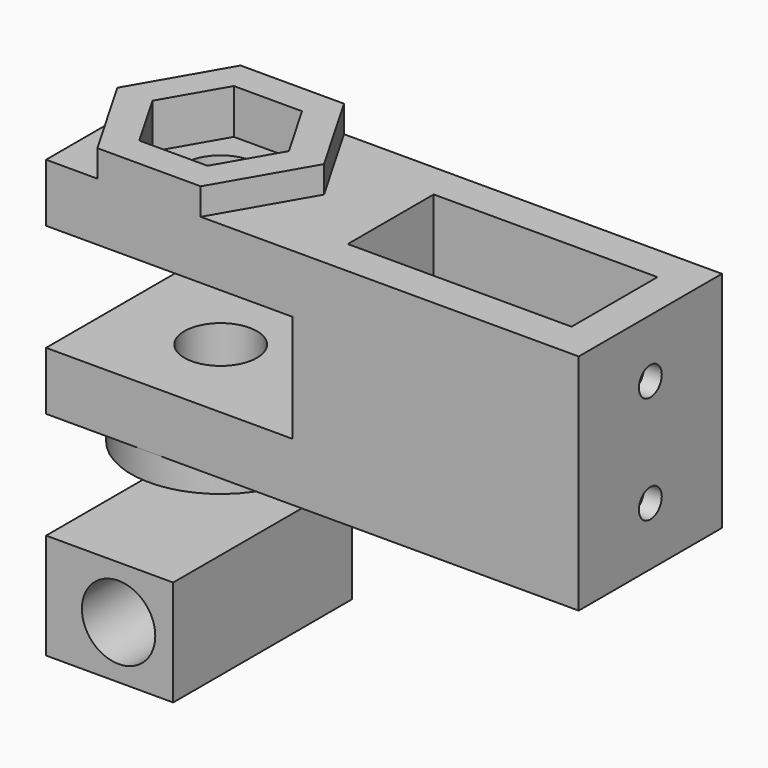
from build123d import *

# Parameters (mm, degrees)
F0_W      = 59.505553
F0_H      = 20
F0_R      = 4.05
F0_W_2    = 25
F0_H_2    = 12
F1_DEPTH  = 25
F2_W      = 27.505553
F2_H      = 12
F3_DEPTH  = 25
F5_DEPTH  = 3
F7_DEPTH  = 5
F8_R      = 10
F9_DEPTH  = 3
F10_R     = 6.6
F11_DEPTH = 5
F12_R     = 1.6
F13_DEPTH = 4
F14_W     = 14.2
F14_H     = 11.8
F14_R     = 4.1
F15_DEPTH = 25
F16_R     = 1.6
F17_DEPTH = 2
F19_DEPTH = 2


with BuildPart() as f1:
    # F0 (on Top) → F1 (new body)
    with BuildSketch(Plane.XY):
        with Locations((29.752776, 10)):
            Rectangle(F0_W, F0_H)
        with Locations((11.505553, 10)):
            Circle(F0_R, mode=Mode.SUBTRACT)
        with Locations((43.005553, 10)):
            Rectangle(F0_W_2, F0_H_2, mode=Mode.SUBTRACT)
    extrude(amount=F1_DEPTH)

    # F2 (on face) → F3 (cut)
    with BuildSketch(Plane(origin=(0, 20, 0), x_dir=(-1, 0, 0), z_dir=(0, 1, 0))):
        with Locations((-13.752776, 12.5)):
            Rectangle(F2_W, F2_H)
    extrude(amount=-F3_DEPTH, mode=Mode.SUBTRACT)

    # F4 (on face) → F5 (join)
    with BuildSketch(Plane.XY.offset(25)):
        Polygon((17.279056, 20), (5.732051, 20), (-0.041452, 10), (5.732051, 0), (17.279056, 0), (23.052559, 10), align=None)
    extrude(amount=F5_DEPTH)

    # F6 (on face) → F7 (cut)
    with BuildSketch(Plane.XY.offset(28)):
        Polygon((7.695042, 16.6), (3.88453, 10), (7.695042, 3.4), (15.316065, 3.4), (19.126577, 10), (15.316065, 16.6), align=None)
    extrude(amount=-F7_DEPTH, mode=Mode.SUBTRACT)

    # F8 (on face) → F9 (join)
    with BuildSketch(Plane(origin=(0, 0, 0), x_dir=(1, 0, 0), z_dir=(0, 0, -1))):
        with Locations((11.505553, -10)):
            Circle(F8_R)
    extrude(amount=F9_DEPTH)

    # F10 (on face) → F11 (cut)
    with BuildSketch(Plane(origin=(0, 0, -3), x_dir=(1, 0, 0), z_dir=(0, 0, -1))):
        with Locations((11.505553, -10)):
            Circle(F10_R)
    extrude(amount=-F11_DEPTH, mode=Mode.SUBTRACT)

    # F12 (on face) → F13 (cut, through all)
    with BuildSketch(Plane.YZ.offset(59.505553)):
        with Locations((10, 6.5)):
            Circle(F12_R)
        with Locations((10, 18.5)):
            Circle(F12_R)
    extrude(amount=-F13_DEPTH, mode=Mode.SUBTRACT)

    # F18 (on face) → F19 (cut)
    with BuildSketch(Plane(origin=(55.505553, 0, 0), x_dir=(0, -1, 0), z_dir=(-1, 0, 0))):
        Polygon((-12.85, 8.145448), (-12.85, 4.854552), (-10, 3.209103), (-7.15, 4.854552), (-7.15, 8.145448), (-10, 9.790897), align=None)
        Polygon((-12.85, 20.145448), (-12.85, 16.854552), (-10, 15.209103), (-7.15, 16.854552), (-7.15, 20.145448), (-10, 21.790897), align=None)
    extrude(amount=-F19_DEPTH, mode=Mode.SUBTRACT)


with BuildPart() as f15:
    # F14 (on Front) → F15 (new body)
    with BuildSketch(Plane.XZ):
        with Locations((7.1, -17.87)):
            Rectangle(F14_W, F14_H)
        with Locations((8.1, -17.87)):
            Circle(F14_R, mode=Mode.SUBTRACT)
    extrude(amount=-F15_DEPTH)

    # F16 (on face) → F17 (cut)
    with BuildSketch(Plane(origin=(0, 0, 0), x_dir=(0, -1, 0), z_dir=(-1, 0, 0))):
        with Locations((-18.5, -17.87)):
            Circle(F16_R)
        with Locations((-6.5, -17.87)):
            Circle(F16_R)
    extrude(amount=-F17_DEPTH, mode=Mode.SUBTRACT)


solid = Compound([f1.part, f15.part])
